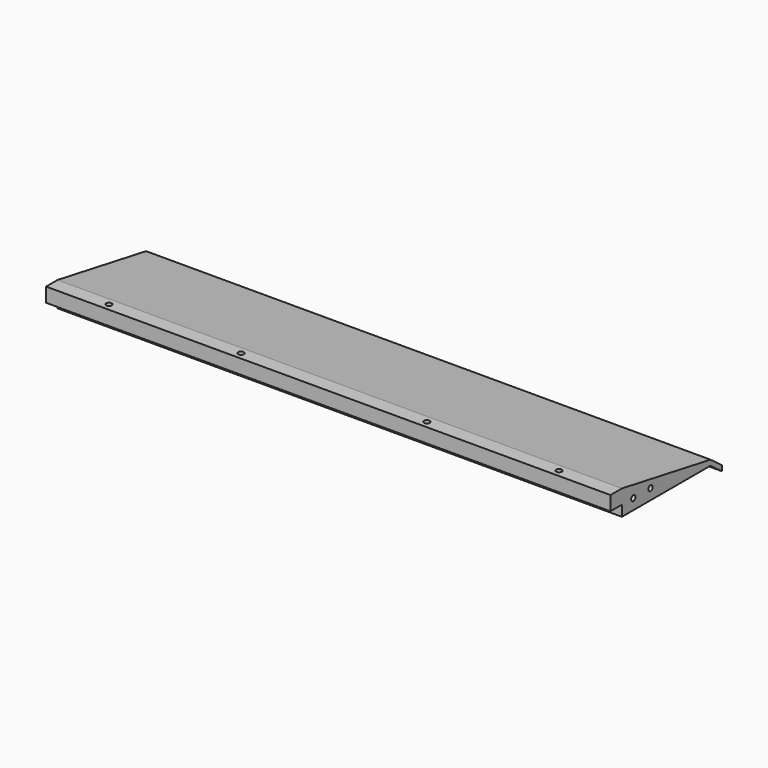
from build123d import *

# Parameters (mm, degrees)
F1_DEPTH = 501.65
F2_R     = 2.38125
F3_DEPTH = 14.986
F4_R     = 2.38125
F5_DEPTH = 14.986
F6_R     = 2.54
F7_DEPTH = 31.751


with BuildPart() as f1:
    # F0 (on Right) → F1 (new body)
    with BuildSketch(Plane.YZ):
        Polygon((-39.572591, 38.912156), (-52.272591, 38.912156), (-52.272591, 26.212156), (-39.572591, 26.212156), (-39.572591, 16.687156), (58.852409, 16.687156), (71.552409, 7.162156), (71.552409, 11.911956), (58.852409, 21.436956), align=None)
    extrude(amount=-F1_DEPTH)

    # F2 (on face) → F3 (cut)
    with BuildSketch(Plane.YZ):
        with Locations((-26.872591, 26.212156)):
            Circle(F2_R)
        with Locations((-7.822591, 26.212156)):
            Circle(F2_R)
    extrude(amount=-F3_DEPTH, mode=Mode.SUBTRACT)

    # F4 (on face) → F5 (cut)
    with BuildSketch(Plane(origin=(-501.65, 0, 0), x_dir=(0, -1, 0), z_dir=(-1, 0, 0))):
        with Locations((26.872591, 26.212156)):
            Circle(F4_R)
        with Locations((7.822591, 26.212156)):
            Circle(F4_R)
    extrude(amount=-F5_DEPTH, mode=Mode.SUBTRACT)

    # F6 (on face) → F7 (cut, through all)
    with BuildSketch(Plane.XY.offset(38.912156)):
        with Locations((-450.85, -45.922591)):
            Circle(F6_R)
        with Locations((-333.375, -45.922591)):
            Circle(F6_R)
        with Locations((-168.275, -45.922591)):
            Circle(F6_R)
        with Locations((-50.8, -45.922591)):
            Circle(F6_R)
    extrude(amount=-F7_DEPTH, mode=Mode.SUBTRACT)


solid = f1.part
